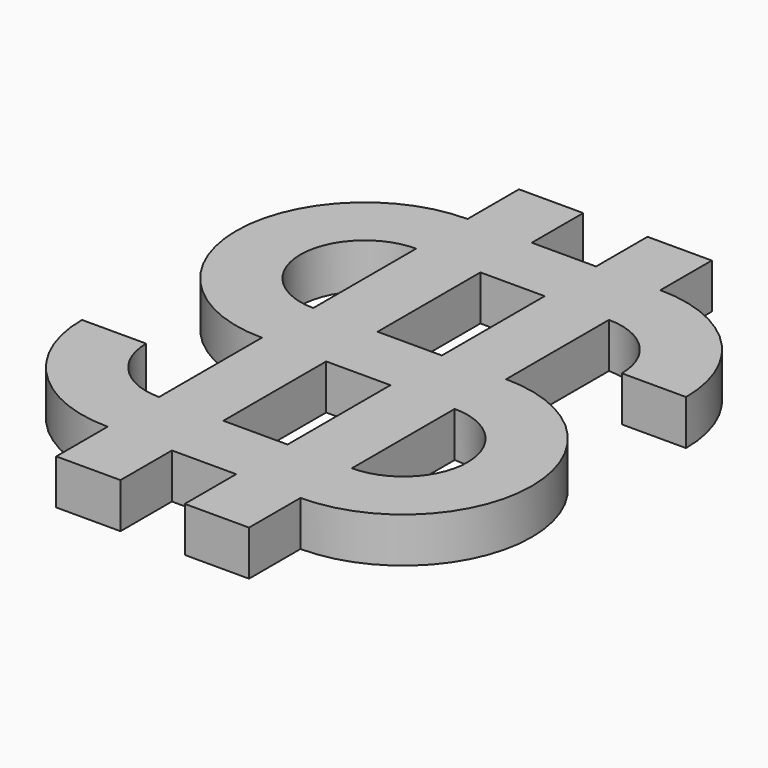
from build123d import *

# Parameters (mm, degrees)
F0_W     = 4.2857142857
F0_H     = 4.2857142857
F0_H_2   = 8.5714285714
F1_DEPTH = 3
F2_DEPTH = 3


with BuildPart() as f1:
    # F0 (on Top) → F1 (new body)
    with BuildSketch(Plane.XY):
        with BuildLine():
            ThreePointArc((-8.5714285714, 4.2857142857), (-5.5409709378, 3.0304576337), (-4.2857142857, 0))
            Line((-4.2857142857, 0), (0, 0))
            ThreePointArc((0, 0), (-2.5105133041, 6.0609152673), (-8.5714285714, 8.5714285714))
            Line((-8.5714285714, 8.5714285714), (-8.5714285714, 4.2857142857))
        make_face()
        with Locations((-10.7142857143, 6.4285714286)):
            Rectangle(F0_W, F0_H)
        with Locations((-10.7142857143, 10.7142857143)):
            Rectangle(F0_W, F0_H)
        with Locations((-15, 6.4285714286)):
            Rectangle(F0_W, F0_H)
        with Locations((-10.7142857143, 0)):
            Rectangle(F0_W, F0_H_2)
        Polygon((-17.1428571429, 0), (-17.1428571429, 4.2857142857), (-21.4285714286, 4.2857142857), (-21.4285714286, -4.2857142857), (-17.1428571429, -4.2857142857), align=None)
        with Locations((-19.2857142857, 6.4285714286)):
            Rectangle(F0_W, F0_H)
        with Locations((-19.2857142857, 10.7142857143)):
            Rectangle(F0_W, F0_H)
    extrude(amount=F1_DEPTH)

    # F0 (on Top) → F2 (join)
    with BuildSketch(Plane.XY):
        with BuildLine():
            ThreePointArc((-21.4285714286, -4.2857142857), (-25.7142857143, 0), (-21.4285714286, 4.2857142857))
            Line((-21.4285714286, 4.2857142857), (-21.4285714286, 8.5714285714))
            ThreePointArc((-21.4285714286, 8.5714285714), (-30, 0), (-21.4285714286, -8.5714285714))
            Line((-21.4285714286, -8.5714285714), (-21.4285714286, -4.2857142857))
        make_face()
        with Locations((-19.2857142857, -6.4285714286)):
            Rectangle(F0_W, F0_H)
        with Locations((-19.2857142857, -12.8571428571)):
            Rectangle(F0_W, F0_H_2)
        with BuildLine():
            ThreePointArc((-8.5714285714, -21.4285714286), (0, -12.8571428571), (-8.5714285714, -4.2857142857))
            Line((-8.5714285714, -4.2857142857), (-8.5714285714, -8.5714285714))
            ThreePointArc((-8.5714285714, -8.5714285714), (-4.2857142857, -12.8571428571), (-8.5714285714, -17.1428571429))
            Line((-8.5714285714, -17.1428571429), (-8.5714285714, -21.4285714286))
        make_face()
        with Locations((-10.7142857143, -19.2857142857)):
            Rectangle(F0_W, F0_H)
        with Locations((-15, -19.2857142857)):
            Rectangle(F0_W, F0_H)
        with Locations((-19.2857142857, -19.2857142857)):
            Rectangle(F0_W, F0_H)
        with Locations((-10.7142857143, -6.4285714286)):
            Rectangle(F0_W, F0_H)
        with BuildLine():
            ThreePointArc((-30, -12.8571428571), (-27.4894866959, -18.9180581245), (-21.4285714286, -21.4285714286))
            Line((-21.4285714286, -21.4285714286), (-21.4285714286, -17.1428571429))
            ThreePointArc((-21.4285714286, -17.1428571429), (-24.4590290622, -15.8876004908), (-25.7142857143, -12.8571428571))
            Line((-25.7142857143, -12.8571428571), (-30, -12.8571428571))
        make_face()
        with Locations((-19.2857142857, -23.5714285714)):
            Rectangle(F0_W, F0_H)
        with Locations((-10.7142857143, -23.5714285714)):
            Rectangle(F0_W, F0_H)
        with Locations((-10.7142857143, -12.8571428571)):
            Rectangle(F0_W, F0_H_2)
        with Locations((-15, -6.4285714286)):
            Rectangle(F0_W, F0_H)
    extrude(amount=F2_DEPTH)


solid = f1.part
